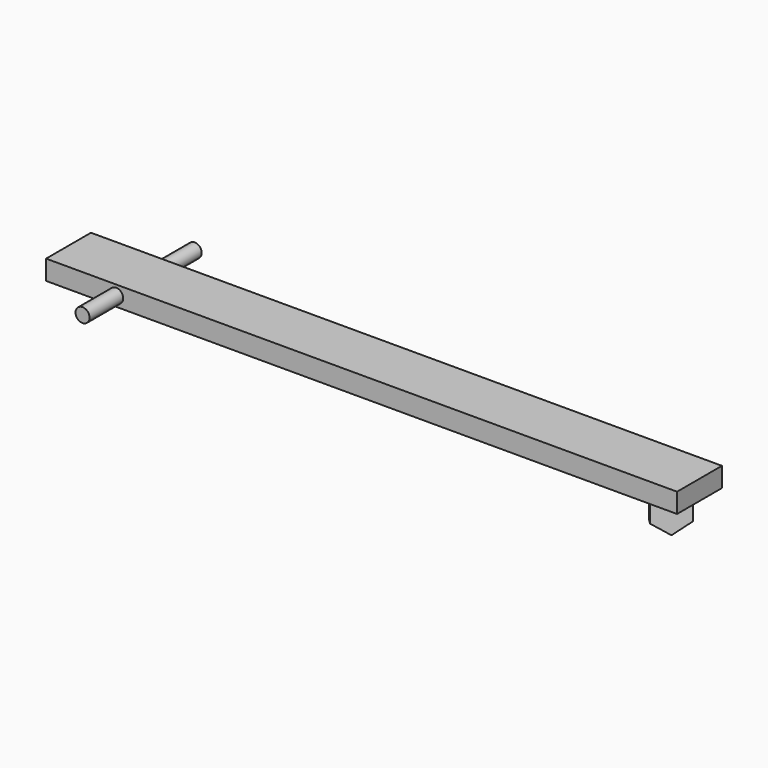
from build123d import *

# Parameters (mm, degrees)
F0_W      = 20
F0_H      = 7
F1_DEPTH  = 200
F2_DEPTH  = 25
F3_R      = 2.5
F4_DEPTH  = 20
F5_R      = 2.5
F6_DEPTH  = 25
F10_DEPTH = 3


with BuildPart() as f1:
    # F0 (on Right) → F1 (new body)
    with BuildSketch(Plane.YZ):
        Rectangle(F0_W, F0_H)
    extrude(amount=F1_DEPTH)

    # F2 (add): a face of the model
    f2_faces = [f1.faces().sort_by_distance(p)[0] for p in [
        (0, 0, 0),
    ]]
    extrude(f2_faces, amount=F2_DEPTH)

    # F3 (on face) → F4 (cut, through all)
    with BuildSketch(Plane.XZ.offset(10)):
        Circle(F3_R)
    extrude(amount=-F4_DEPTH, mode=Mode.SUBTRACT)


with BuildPart() as f6:
    # F5 (on Front) → F6 (new body, symmetric)
    with BuildSketch(Plane.XZ):
        Circle(F5_R)
    extrude(amount=F6_DEPTH, both=True)


with BuildPart() as f10:
    # F9 (on face) → F10 (new body)
    with BuildSketch(Plane(origin=(95, -95, 0), x_dir=(-0.7071067812, -0.7071067812, 0), z_dir=(-0.7071067812, 0.7071067812, 0))):
        Polygon((-128.3502884254, -3.5), (-140.3502884254, -3.5), (-140.3502884254, -13.5), (-134.3502884254, -17.5), (-128.3502884254, -13.5), align=None)
    extrude(amount=F10_DEPTH)


solid = Compound([f1.part, f6.part, f10.part])
